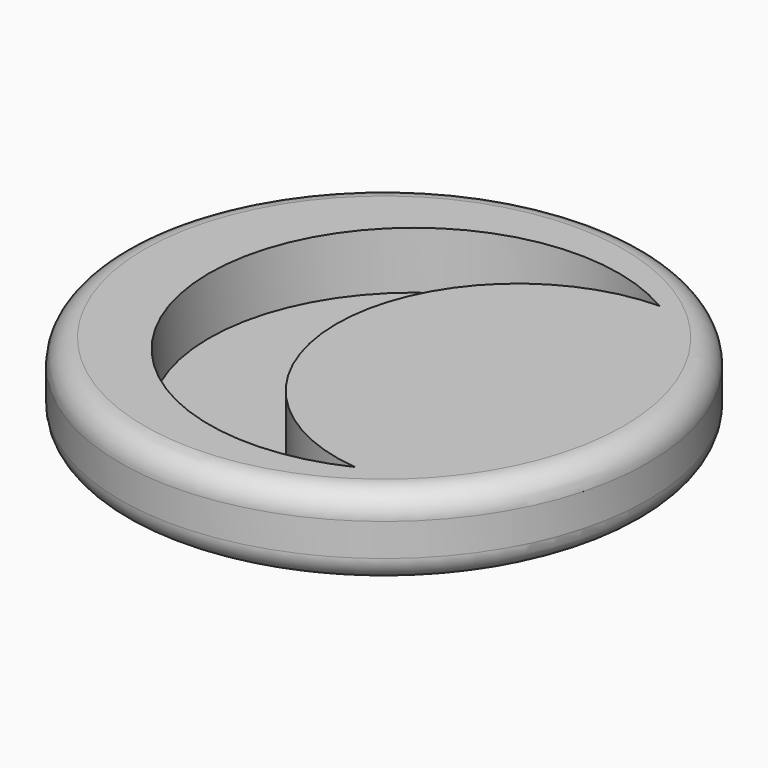
from build123d import *

# Parameters (mm, degrees)
F0_R     = 82.200054
F0_R_2   = 75.168318
F1_DEPTH = 25.4
F2_R     = 7.62
F3_DEPTH = 7.62


with BuildPart() as f1:
    # F0 (on Top) → F1 (new body)
    with BuildSketch(Plane.XY):
        Circle(F0_R)
        Circle(F0_R_2, mode=Mode.SUBTRACT)
        Circle(F0_R_2)
        with BuildLine():
            ThreePointArc((37.00019, -57.652773), (-54.364996, 2.604364), (41.772287, 54.912514))
            ThreePointArc((41.772287, 54.912514), (-13.536125, 0.873463), (37.00019, -57.652773))
        make_face(mode=Mode.SUBTRACT)
    extrude(amount=F1_DEPTH)

    # F2
    f2_edges = [f1.edges().sort_by_distance(p)[0] for p in [
        (-82.200054, 0, 25.4),
        (-82.200054, 0, 0),
    ]]
    fillet(f2_edges, radius=F2_R)

    # F0 (on Top) → F3 (join)
    with BuildSketch(Plane.XY):
        with BuildLine():
            ThreePointArc((37.00019, -57.652773), (-13.536125, 0.873463), (41.772287, 54.912514))
            ThreePointArc((41.772287, 54.912514), (-54.364996, 2.604364), (37.00019, -57.652773))
        make_face()
    extrude(amount=F3_DEPTH)


solid = f1.part
